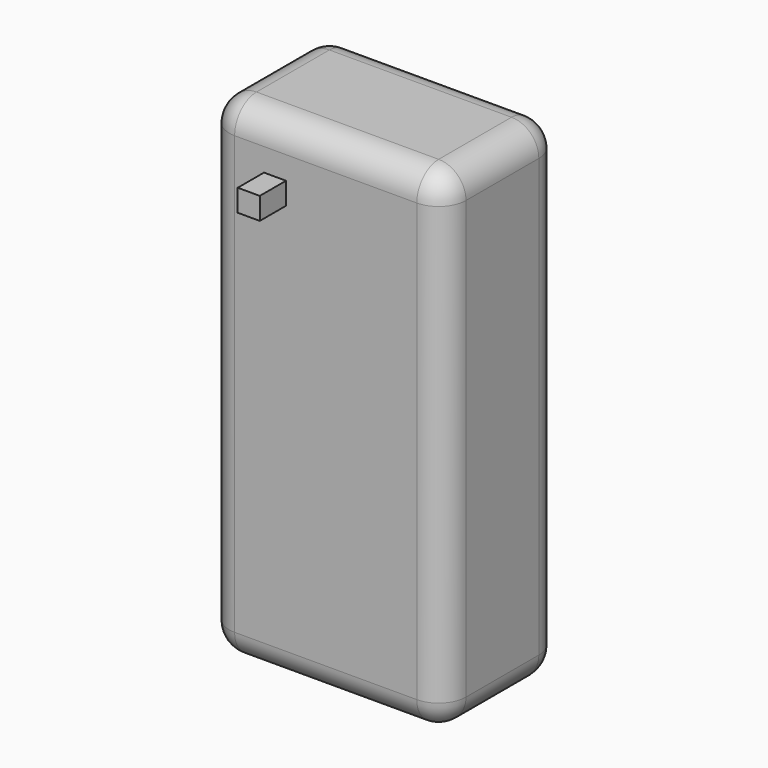
from build123d import *

# Parameters (mm, degrees)
F0_W     = 33.02
F0_H     = 68.58
F1_DEPTH = 20.32
F2_R     = 3.81
F3_W     = 3.073085
F3_H     = 3.073089
F4_DEPTH = 4.572


with BuildPart() as f1:
    # F0 (on Front) → F1 (new body)
    with BuildSketch(Plane.XZ):
        with Locations((16.51, 34.29)):
            Rectangle(F0_W, F0_H)
    extrude(amount=F1_DEPTH)

    # F2
    f2_edges = [f1.edges().sort_by_distance(p)[0] for p in [
        (33.02, -20.32, 34.29),
        (33.02, -10.16, 68.58),
        (16.51, -20.32, 68.58),
        (0, -20.32, 34.29),
        (16.51, -20.32, 0),
        (33.02, -10.16, 0),
        (33.02, 0, 34.29),
        (16.51, 0, 0),
        (0, 0, 34.29),
        (0, -10.16, 68.58),
        (0, -10.16, 0),
        (16.51, 0, 68.58),
    ]]
    fillet(f2_edges, radius=F2_R)

    # F3 (on face) → F4 (join)
    with BuildSketch(Plane.XZ.offset(20.32)):
        with Locations((9.438765, 60.034938)):
            Rectangle(F3_W, F3_H)
    extrude(amount=F4_DEPTH)


solid = f1.part
